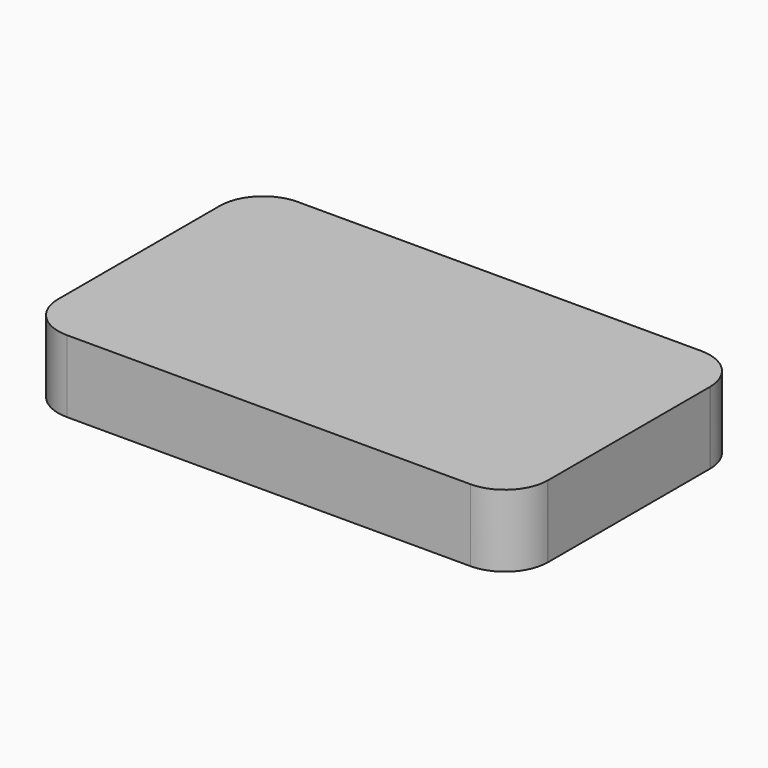
from build123d import *

# Parameters (mm, degrees)
F0_W     = 27.1898097297
F0_H     = 16.2868271582
F1_DEPTH = 25


with BuildPart() as f1:
    # F0 (on Top) → F1 (new body)
    with BuildSketch(Plane.XY):
        with BuildLine():
            ThreePointArc((-296.8951798975, -48.7195744038), (-292.5017816153, -59.3261761216), (-281.8951798975, -63.7195744038))
            Line((-281.8951798975, -63.7195744038), (-142.0774715642, -63.7195744038))
            ThreePointArc((-142.0774715642, -63.7195744038), (-131.5723208853, -59.4266659422), (-127.0801902383, -49.0051489655))
            ThreePointArc((-127.0801902383, -49.0051489655), (-162.3644421178, -13.7181785166), (-127.0801902383, 21.5687919322))
            ThreePointArc((-127.0801902383, 21.5687919322), (-131.5723208853, 31.990308909), (-142.0774715642, 36.2832173705))
            Line((-142.0774715642, 36.2832173705), (-281.8951798975, 36.2832173705))
            ThreePointArc((-281.8951798975, 36.2832173705), (-292.5017816153, 31.8898190883), (-296.8951798975, 21.2832173705))
            Line((-296.8951798975, 21.2832173705), (-296.8951798975, 21.2820385972))
            ThreePointArc((-296.8951798975, 21.2820385972), (-261.8949627837, -13.7181785166), (-296.8951798975, -48.7183956304))
            Line((-296.8951798975, -48.7183956304), (-296.8951798975, -48.7195744038))
        make_face()
        Polygon((-296.8951798975, -21.1222618818), (-296.8951798975, -22.4110819399), (-274.3184268475, -22.4110819399), (-274.3184268475, -5.8417902328), (-296.8951798975, -5.8417902328), align=None)
        with Locations((-140.672376429, -13.9852038119)):
            Rectangle(F0_W, F0_H)
        with BuildLine():
            Line((-296.8951798975, -35.9437018633), (-296.8951798975, -48.7183956304))
            ThreePointArc((-296.8951798975, -48.7183956304), (-261.8949627837, -13.7181785166), (-296.8951798975, 21.2820385972))
            Line((-296.8951798975, 21.2820385972), (-296.8951798975, 0))
            Line((-296.8951798975, 0), (-296.8951798975, -5.8417902328))
            Line((-296.8951798975, -5.8417902328), (-274.3184268475, -5.8417902328))
            Line((-274.3184268475, -5.8417902328), (-274.3184268475, -22.4110819399))
            Line((-274.3184268475, -22.4110819399), (-296.8951798975, -22.4110819399))
            Line((-296.8951798975, -22.4110819399), (-296.8951798975, -35.9437018633))
        make_face()
        with BuildLine():
            ThreePointArc((-127.0801902383, 21.5687919322), (-162.3644421178, -13.7181785166), (-127.0801902383, -49.0051489655))
            ThreePointArc((-127.0801902383, -49.0051489655), (-127.0781512481, -48.8623681549), (-127.0774715642, -48.7195744038))
            Line((-127.0774715642, -48.7195744038), (-127.0774715642, -36.2968184054))
            Line((-127.0774715642, -36.2968184054), (-127.0774715642, -22.4110819399))
            Line((-127.0774715642, -22.4110819399), (-127.0774715642, -22.128617391))
            Line((-127.0774715642, -22.128617391), (-154.2672812939, -22.128617391))
            Line((-154.2672812939, -22.128617391), (-154.2672812939, -5.8417902328))
            Line((-154.2672812939, -5.8417902328), (-127.0774715642, -5.8417902328))
            Line((-127.0774715642, -5.8417902328), (-127.0774715642, 21.2832173705))
            ThreePointArc((-127.0774715642, 21.2832173705), (-127.0781512481, 21.4260111217), (-127.0801902383, 21.5687919322))
        make_face()
    extrude(amount=F1_DEPTH)


solid = f1.part
